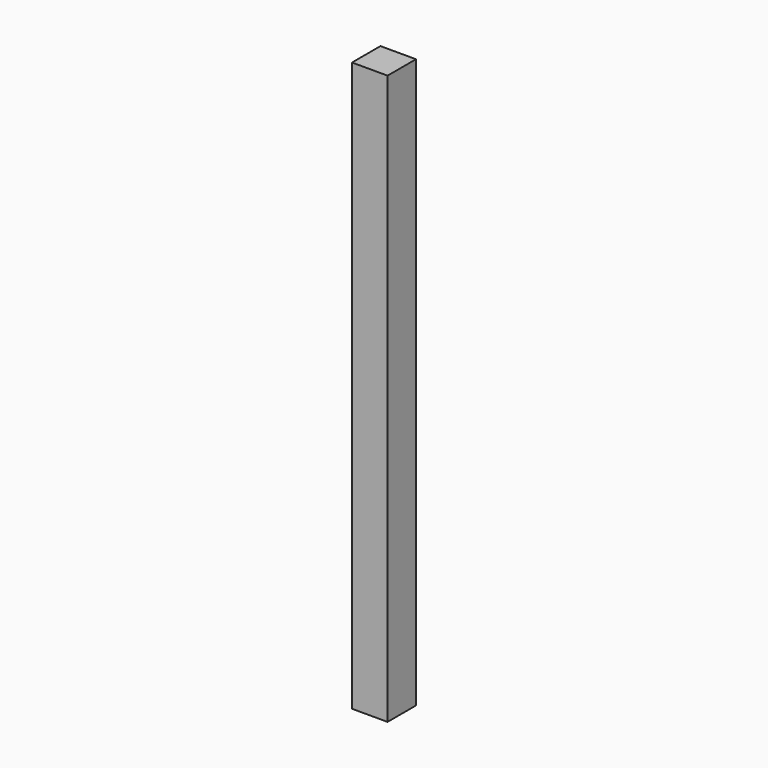
from build123d import *

# Parameters (mm, degrees)
F0_W     = 12.7
F0_H     = 12.7
F1_DEPTH = 203.2
F3_D     = 2.7051
F3_DEPTH = 10.16
F3_TIP   = 0.8126940303


with BuildPart() as f1:
    # F0 (on Top) → F1 (new body)
    with BuildSketch(Plane.XY):
        Rectangle(F0_W, F0_H)
    extrude(amount=-F1_DEPTH)

    # F3
    with Locations(Plane(origin=(0, 6.35, 0), x_dir=(-1, 0, 0), z_dir=(0, 1, 0))):
        with Locations((0, -101.6), (0, -177.8)):
            Hole(F3_D / 2, depth=F3_DEPTH)
            with Locations((0, 0, -(F3_DEPTH + F3_TIP / 2))):  # 118° drill point
                Cone(0, F3_D / 2, F3_TIP, mode=Mode.SUBTRACT)


solid = f1.part
